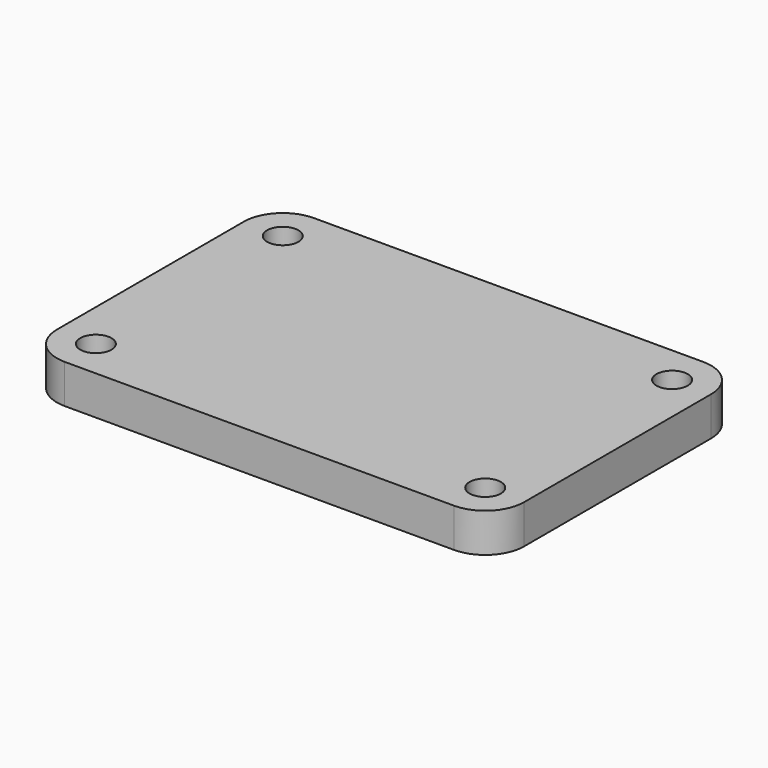
from build123d import *

# Parameters (mm, degrees)
F0_W     = 76.2
F0_H     = 50.8
F0_R     = 2.5527
F2_DEPTH = 6.35
F1_R     = 6.35


with BuildPart() as f2:
    # F0 (on Top) → F2 (new body)
    with BuildSketch(Plane.XY):
        Rectangle(F0_W, F0_H)
        with Locations((-31.75, -19.05)):
            Circle(F0_R, mode=Mode.SUBTRACT)
        with Locations((31.75, -19.05)):
            Circle(F0_R, mode=Mode.SUBTRACT)
        with Locations((-31.75, 19.05)):
            Circle(F0_R, mode=Mode.SUBTRACT)
        with Locations((31.75, 19.05)):
            Circle(F0_R, mode=Mode.SUBTRACT)
    extrude(amount=F2_DEPTH)

    # F1
    f1_edges = [f2.edges().sort_by_distance(p)[0] for p in [
        (-38.1, 25.4, 3.175),
        (-38.1, -25.4, 3.175),
        (38.1, 25.4, 3.175),
        (38.1, -25.4, 3.175),
    ]]
    fillet(f1_edges, radius=F1_R)


solid = f2.part
